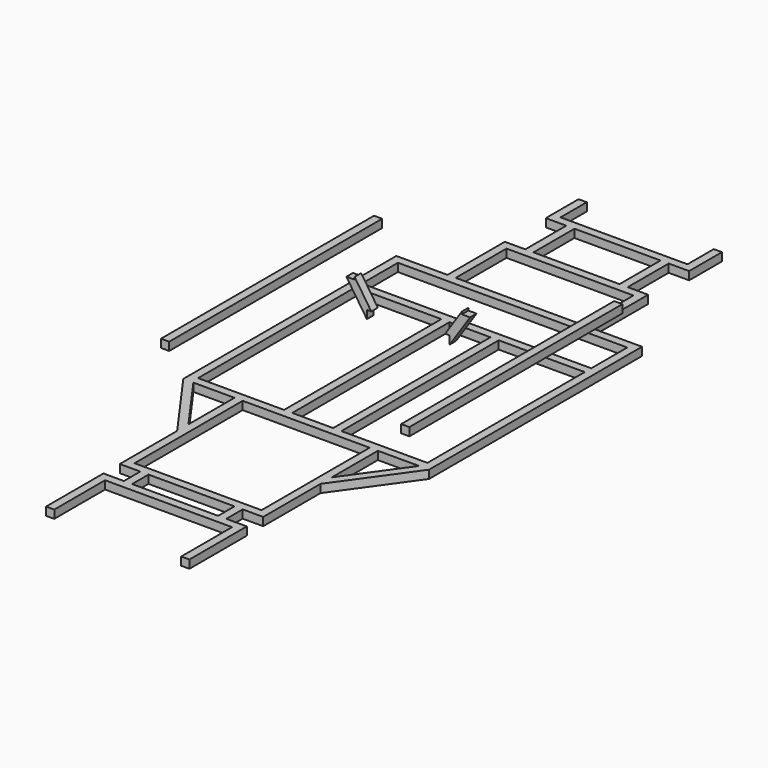
from build123d import *

# Parameters (mm, degrees)
F0_W     = 420
F0_H     = 960
F0_W_2   = 200
F0_W_3   = 1120
F0_H_2   = 220
F0_W_4   = 620
F0_H_3   = 310
F0_W_5   = 40
F0_H_4   = 100
F0_H_5   = 40
F1_DEPTH = 20
F2_W     = 40
F2_H     = 40
F3_DEPTH = 650
F4_W     = 40
F4_H     = 40
F5_DEPTH = 650
F7_DEPTH = 20
F9_DEPTH = 20


with BuildPart() as f1:
    # F0 (on Top) → F1 (new body, symmetric)
    with BuildSketch(Plane.XY):
        Polygon((0, -500), (100, -500), (310, -500), (310, -850), (350, -850), (600, -500), (600, 500), (600, 800), (350, 800), (350, 1150), (310, 1150), (250, 1150), (250, 1400), (310, 1400), (350, 1400), (350, 1600), (310, 1600), (310, 1440), (-310, 1440), (-310, 1600), (-350, 1600), (-350, 1400), (-310, 1400), (-250, 1400), (-250, 1150), (-310, 1150), (-350, 1150), (-350, 800), (-600, 800), (-600, 500), (-600, -500), (-350, -850), (-310, -850), (-310, -500), (-100, -500), align=None)
        Polygon((-550.843856, -500), (-350, -500), (-350, -781.181398), align=None, mode=Mode.SUBTRACT)
        Polygon((350, -781.181398), (350, -500), (550.843856, -500), align=None, mode=Mode.SUBTRACT)
        with Locations((-350, 20)):
            Rectangle(F0_W, F0_H, mode=Mode.SUBTRACT)
        with Locations((0, 20)):
            Rectangle(F0_W_2, F0_H, mode=Mode.SUBTRACT)
        with Locations((0, 650)):
            Rectangle(F0_W_3, F0_H_2, mode=Mode.SUBTRACT)
        with Locations((350, 20)):
            Rectangle(F0_W, F0_H, mode=Mode.SUBTRACT)
        with Locations((0, 955)):
            Rectangle(F0_W_4, F0_H_3, mode=Mode.SUBTRACT)
        Polygon((-210, 1400), (0, 1400), (210, 1400), (210, 1150), (0, 1150), (-210, 1150), align=None, mode=Mode.SUBTRACT)
        Polygon((350, -850), (310, -850), (310, -1160), (0, -1160), (-310, -1160), (-310, -850), (-350, -850), (-350, -1200), (-250, -1200), (-210, -1200), (0, -1200), (210, -1200), (250, -1200), (350, -1200), align=None)
        with Locations((230, -1250)):
            Rectangle(F0_W_5, F0_H_4)
        with Locations((-230, -1250)):
            Rectangle(F0_W_5, F0_H_4)
        Polygon((310, -1300), (250, -1300), (210, -1300), (0, -1300), (-210, -1300), (-250, -1300), (-310, -1300), (-310, -1340), (0, -1340), (310, -1340), align=None)
        with Locations((330, -1495)):
            Rectangle(F0_W_5, F0_H_3)
        with Locations((-330, -1495)):
            Rectangle(F0_W_5, F0_H_3)
        with Locations((-330, -1320)):
            Rectangle(F0_W_5, F0_H_5)
        with Locations((330, -1320)):
            Rectangle(F0_W_5, F0_H_5)
    extrude(amount=F1_DEPTH, both=True)


with BuildPart() as f3:
    # F2 (on Front) → F3 (new body, symmetric)
    with BuildSketch(Plane.XZ):
        with Locations((-568.938563, 237.431973)):
            Rectangle(F2_W, F2_H)
    extrude(amount=F3_DEPTH, both=True)


with BuildPart() as f5:
    # F4 (on Front) → F5 (new body, symmetric)
    with BuildSketch(Plane.XZ):
        with Locations((604.049072, 251.920938)):
            Rectangle(F4_W, F4_H)
    extrude(amount=F5_DEPTH, both=True)


with BuildPart() as f7:
    # F6 (on Front) → F7 (new body, symmetric)
    with BuildSketch(Plane.XZ):
        Polygon((316.082844, 269.67296), (416.082844, 419.67296), (376.082844, 419.67296), (376.082844, 431.783986), (294.675493, 309.67296), (316.082844, 309.67296), align=None)
    extrude(amount=F7_DEPTH, both=True)


with BuildPart() as f9:
    # F8 (on Front) → F9 (new body, symmetric)
    with BuildSketch(Plane.XZ):
        Polygon((-147.501485, 398.234331), (-187.501485, 398.234331), (-87.501485, 248.234331), (-87.501485, 288.234331), (-66.094134, 288.234331), (-147.501485, 410.345357), align=None)
    extrude(amount=F9_DEPTH, both=True)


solid = Compound([f1.part, f3.part, f5.part, f7.part, f9.part])
